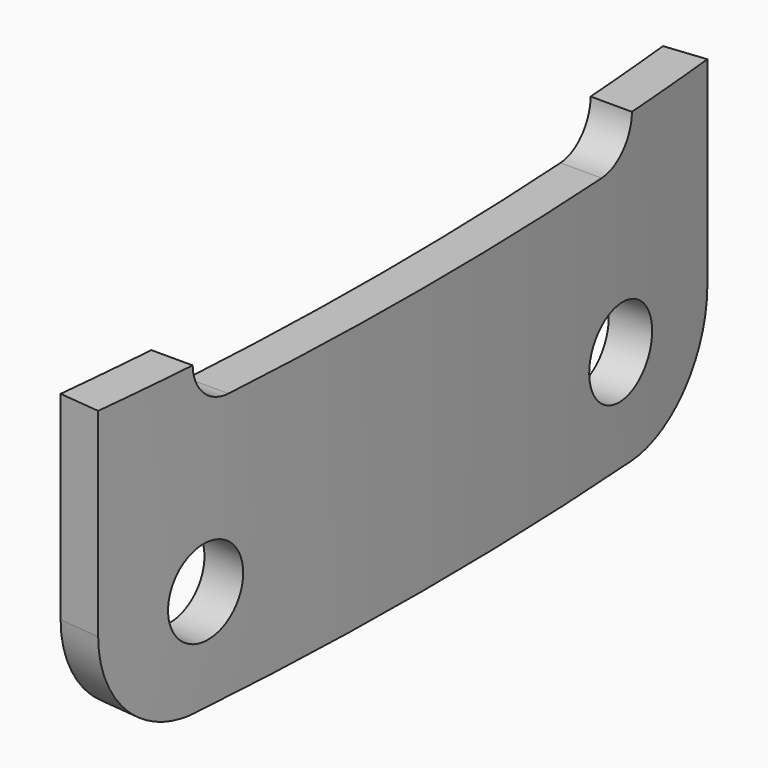
from build123d import *

# Parameters (mm, degrees)
F1_DEPTH  = 71
F2_R      = 25
F4_DEPTH  = 849.526
F8_R      = 10
F9_DEPTH  = 853.624132
F10_R     = 10
F11_DEPTH = 853.624132


with BuildPart() as f1:
    # F0 (on Top) → F1 (new body)
    with BuildSketch(Plane.XY):
        with BuildLine():
            Line((844.948384, 88.06222), (835.474697, 87.074853))
            ThreePointArc((835.474697, 87.074853), (840, 0), (835.474697, -87.074853))
            Line((835.474697, -87.074853), (844.948384, -88.06222))
            ThreePointArc((844.948384, -88.06222), (849.525, 0), (844.948384, 88.06222))
        make_face()
    extrude(amount=F1_DEPTH)

    # F2
    f2_edges = [f1.edges().sort_by_distance(p)[0] for p in [
        (840.211541, -87.568536, 0),
        (840.211541, 87.568536, 0),
    ]]
    fillet(f2_edges, radius=F2_R)

    # F3 (on Right) → F4 (cut, through all)
    with BuildSketch(Plane.YZ):
        with BuildLine():
            Line((-53.95, 61.595), (53.95, 61.595))
            ThreePointArc((53.95, 61.595), (60.70287, 64.39213), (63.5, 71.145))
            Line((63.5, 71.145), (63.5, 188.595))
            Line((63.5, 188.595), (-63.5, 188.595))
            Line((-63.5, 188.595), (-63.5, 71.145))
            ThreePointArc((-63.5, 71.145), (-60.70287, 64.39213), (-53.95, 61.595))
        make_face()
    extrude(amount=F4_DEPTH, mode=Mode.SUBTRACT)

    # F8 (on face) → F9 (cut, through all)
    with BuildSketch(Plane(origin=(0, 0, 0), x_dir=(-0.070627, -0.997503, 0), z_dir=(-0.997503, 0.070627, 0))):
        with Locations((0, 23.569)):
            Circle(F8_R)
    extrude(amount=-F9_DEPTH, mode=Mode.SUBTRACT)

    # F10 (on face) → F11 (cut, through all)
    with BuildSketch(Plane(origin=(0, 0, 0), x_dir=(0.070627, -0.997503, 0), z_dir=(-0.997503, -0.070627, 0))):
        with Locations((0, 23.569)):
            Circle(F10_R)
    extrude(amount=-F11_DEPTH, mode=Mode.SUBTRACT)


solid = f1.part
